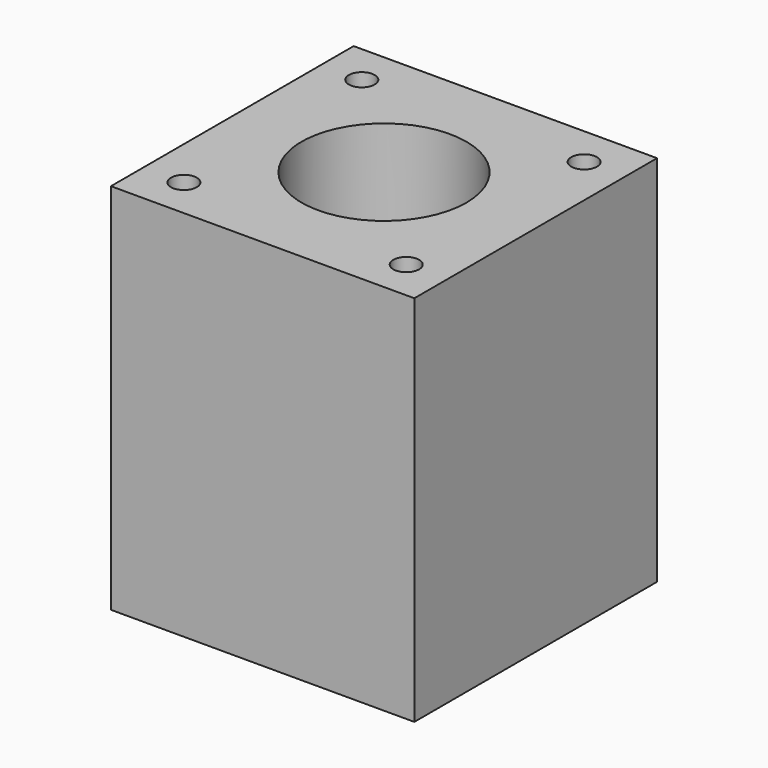
from build123d import *

# Parameters (mm, degrees)
SKETCH_W     = 42.3
SKETCH_H     = 42.3
SKETCH_R     = 1.8
SKETCH_R_2   = 11.5
PAD_DEPTH    = 52
SKETCH001_W  = 23
SKETCH001_H  = 30
POCKET_DEPTH = 21.15


with BuildPart() as part:
    # Sketch → Pad (new body)
    with BuildSketch(Plane.XY):
        with Locations((21.15, 21.15)):
            Rectangle(SKETCH_W, SKETCH_H)
        with Locations((5.65, 36.65)):
            Circle(SKETCH_R, mode=Mode.SUBTRACT)
        with Locations((36.65, 36.65)):
            Circle(SKETCH_R, mode=Mode.SUBTRACT)
        with Locations((36.65, 5.65)):
            Circle(SKETCH_R, mode=Mode.SUBTRACT)
        with Locations((5.65, 5.65)):
            Circle(SKETCH_R, mode=Mode.SUBTRACT)
        with Locations((21.15, 21.15)):
            Circle(SKETCH_R_2, mode=Mode.SUBTRACT)
    extrude(amount=PAD_DEPTH)

    # Sketch001 (on Face1 of Pad) → Pocket (cut)
    with BuildSketch(Plane(origin=(0, 42.3, 0), x_dir=(-1, 0, 0), z_dir=(0, 1, 0))):
        with Locations((-21.15, 21)):
            Rectangle(SKETCH001_W, SKETCH001_H)
    extrude(amount=-POCKET_DEPTH, mode=Mode.SUBTRACT)


solid = part.part
